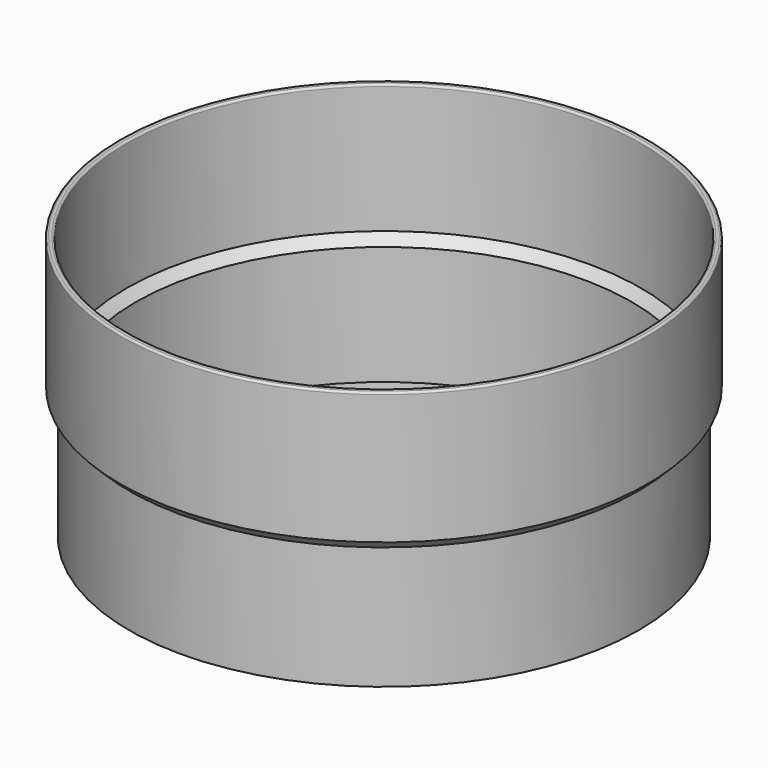
from build123d import *


with BuildPart() as f1:
    # F0 (on Front) → F1 (revolve)
    with BuildSketch(Plane.XZ):
        with BuildLine():
            ThreePointArc((-39.7, 38.317873), (-39.912132, 38.230005), (-40, 38.017873))
            Line((-40, 38.017873), (-40, 18.317873))
            Line((-40, 18.317873), (-38.6, 16.917873))
            Line((-38.6, 16.917873), (-38.6, -1.682127))
            Line((-38.6, -1.682127), (-33.6, -1.682127))
            Line((-33.6, -1.682127), (-33.6, -0.682127))
            Line((-33.6, -0.682127), (-37.6, -0.682127))
            Line((-37.6, -0.682127), (-37.6, 17.332087))
            Line((-37.6, 17.332087), (-39, 18.732087))
            Line((-39, 18.732087), (-39, 38.017873))
            ThreePointArc((-39, 38.017873), (-39.087868, 38.230005), (-39.3, 38.317873))
            Line((-39.3, 38.317873), (-39.7, 38.317873))
        make_face()
    revolve(axis=Axis((0, 0, 6.135541), (0, 0, 1)))


solid = f1.part
